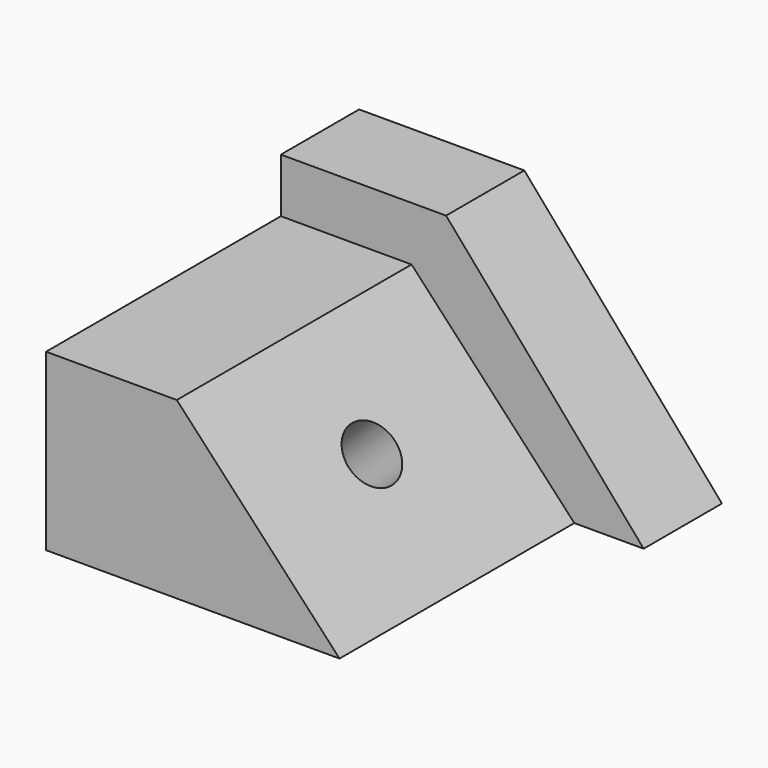
from build123d import *

# Parameters (mm, degrees)
F0_W     = 76.2000009418
F0_H     = 45.3736372292
F1_DEPTH = 76.2
F3_DEPTH = 76.201
F4_R     = 7.496665322
F5_DEPTH = 55.7640015627
F6_W     = 94.2109096795
F6_H     = 59.4590939581
F7_DEPTH = 25.4
F9_DEPTH = 101.601


with BuildPart() as f1:
    # F0 (on Front) → F1 (new body)
    with BuildSketch(Plane.XZ):
        with Locations((-38.1000004709, 22.6868186146)):
            Rectangle(F0_W, F0_H)
    extrude(amount=F1_DEPTH)

    # F2 (on face) → F3 (cut, through all)
    with BuildSketch(Plane.XZ.offset(76.2)):
        Polygon((0, 45.3736372292), (-42.2563627362, 45.3736372292), (0, 0), align=None)
    extrude(amount=-F3_DEPTH, mode=Mode.SUBTRACT)

    # F4 (on face) → F5 (cut, through all)
    with BuildSketch(Plane(origin=(0, 0, 0), x_dir=(0, 1, 0), z_dir=(0.7317979117, 0, 0.6815216918))):
        with Locations((-37.869092077, 32.6580442488)):
            Circle(F4_R)
    extrude(amount=-F5_DEPTH, mode=Mode.SUBTRACT)

    # F6 (on face) → F7 (join)
    with BuildSketch(Plane(origin=(0, 0, 0), x_dir=(-1, 0, 0), z_dir=(0, 1, 0))):
        with Locations((29.094546102, 29.7295469791)):
            Rectangle(F6_W, F6_H)
    extrude(amount=F7_DEPTH)

    # F8 (on face) → F9 (cut, through all)
    with BuildSketch(Plane(origin=(0, 25.4, 0), x_dir=(-1, 0, 0), z_dir=(0, 1, 0))):
        Polygon((-18.0109087378, 59.4590939581), (-18.0109087378, 0), (33.2966521382, 59.4590939581), align=None)
    extrude(amount=-F9_DEPTH, mode=Mode.SUBTRACT)


solid = f1.part
